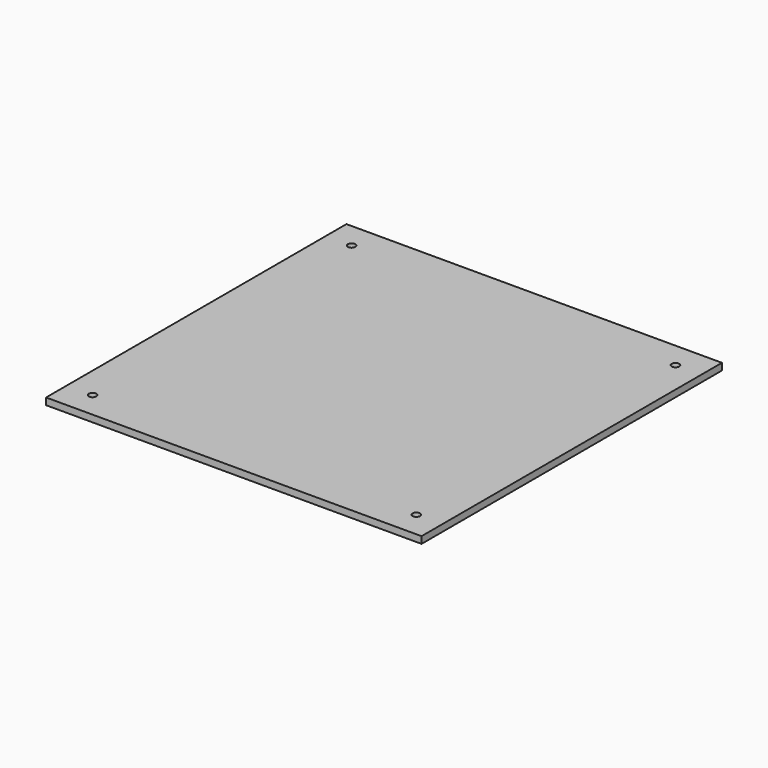
from build123d import *

# Parameters (mm, degrees)
F0_W     = 165.1
F0_H     = 165.1
F1_DEPTH = 3
F2_D     = 3.3


with BuildPart() as f1:
    # F0 (on Top) → F1 (new body)
    with BuildSketch(Plane.XY):
        Rectangle(F0_W, F0_H)
    extrude(amount=F1_DEPTH)

    # F2 (through all)
    with Locations(Plane(origin=(0, 0, 0), x_dir=(1, 0, 0), z_dir=(0, 0, -1))):
        with Locations((-71.2, -71.2), (71.2, -71.2), (71.2, 71.2), (-71.2, 71.2)):
            Hole(F2_D / 2)


solid = f1.part
